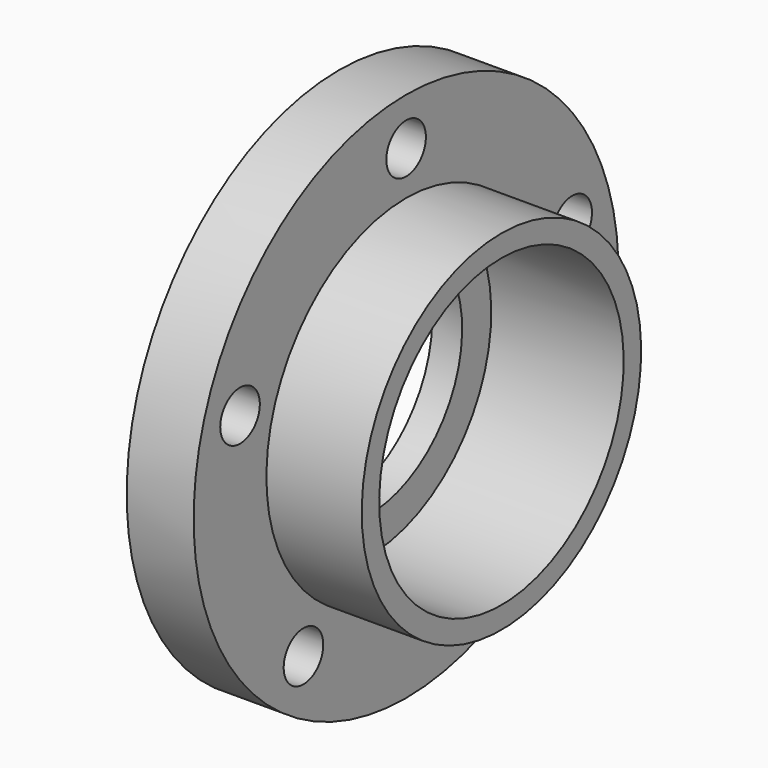
from build123d import *

# Parameters (mm, degrees)
F3_D     = 6.8
F3_DEPTH = 48.75
F3_TIP   = 2.0429261047


with BuildPart() as f1:
    # F0 (on Front) → F1 (revolve)
    with BuildSketch(Plane.XZ):
        Polygon((5.8, 16), (5.8, 21), (24, 21), (24, 24), (10.9, 24), (10.9, 36.5), (1.7, 36.5), (1.7, 16), align=None)
    revolve(axis=Axis((18.4429697692, 0, 0), (1, 0, 0)))

    # F3
    with Locations(Plane.YZ.offset(10.9)):
        with Locations((0, 30), (28.5316954889, 9.2705098312), (17.6335575688, -24.2705098312), (-17.6335575688, -24.2705098312), (-28.5316954889, 9.2705098312)):
            Hole(F3_D / 2, depth=F3_DEPTH)
            with Locations((0, 0, -(F3_DEPTH + F3_TIP / 2))):  # 118° drill point
                Cone(0, F3_D / 2, F3_TIP, mode=Mode.SUBTRACT)


solid = f1.part
